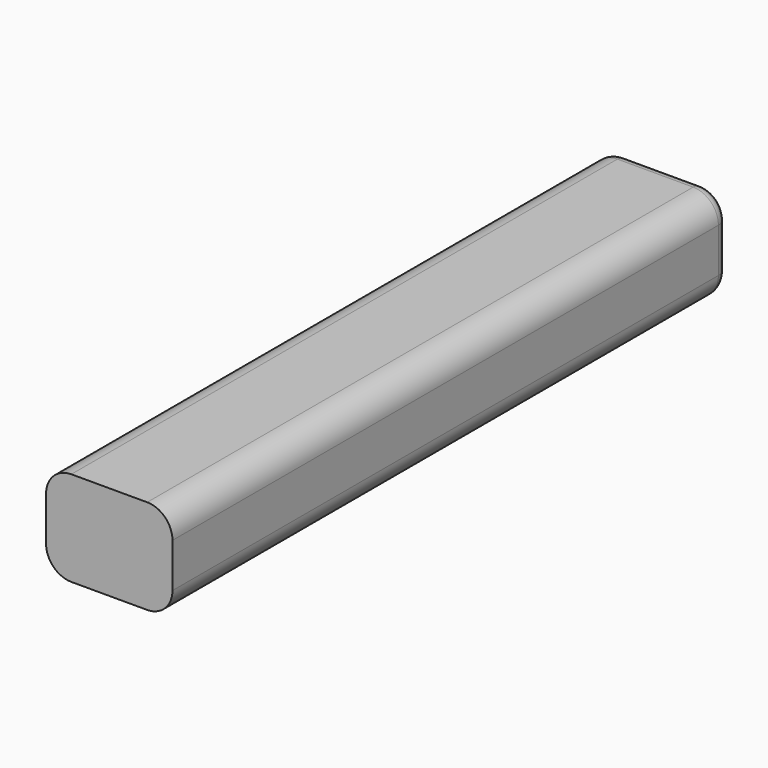
from build123d import *

# Parameters (mm, degrees)
F0_W     = 20
F0_H     = 110
F1_DEPTH = 15
F2_R     = 3
F3_DEPTH = 10
F4_R     = 4
F5_R     = 2


with BuildPart() as f1:
    # F0 (on Top) → F1 (new body)
    with BuildSketch(Plane.XY):
        with Locations((0, 35)):
            Rectangle(F0_W, F0_H)
    extrude(amount=F1_DEPTH)

    # F2 (on Top) → F3 (cut)
    with BuildSketch(Plane.XY):
        Circle(F2_R)
    extrude(amount=F3_DEPTH, mode=Mode.SUBTRACT)

    # F4
    f4_edges = [f1.edges().sort_by_distance(p)[0] for p in [
        (10, 35, 15),
        (-10, 35, 15),
        (10, 35, 0),
        (-10, 35, 0),
    ]]
    fillet(f4_edges, radius=F4_R)

    # F5
    f5_edges = [f1.edges().sort_by_distance(p)[0] for p in [
        (8.828427, 90, 1.171573),
    ]]
    fillet(f5_edges, radius=F5_R)


solid = f1.part
